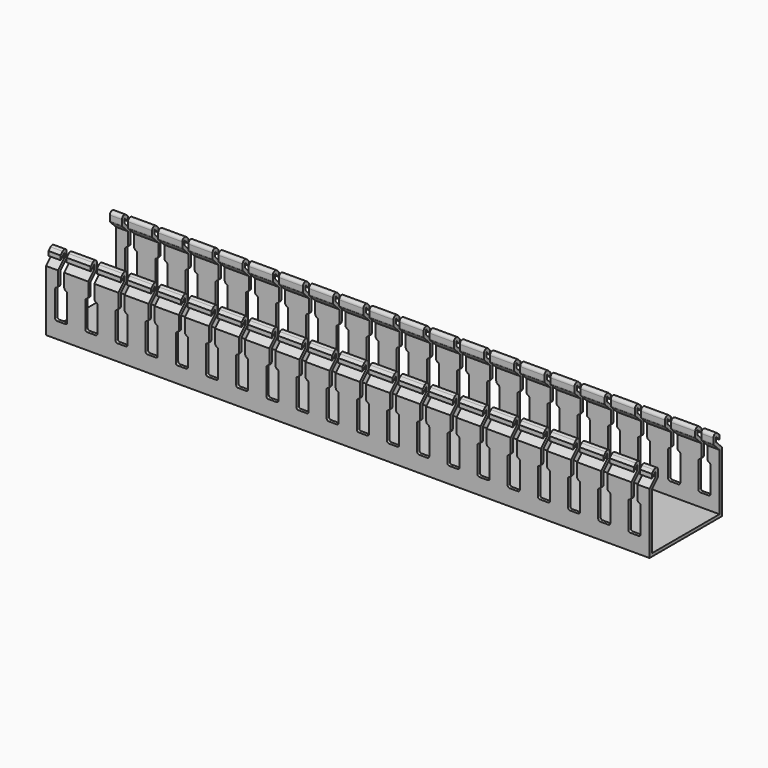
from build123d import *

# Parameters (mm, degrees)
PAD003_DEPTH           = 5
POCKET006_DEPTH        = 15.001
LINEARPATTERN001_COUNT = 20
LINEARPATTERN001_PITCH = 10


with BuildPart() as part:
    # Sketch027 → Pad003 (new body)
    with BuildSketch(Plane.YZ):
        with BuildLine():
            Line((-14, 22.737258), (-14, 24.151472))
            Line((-14, 24.151472), (-13.151472, 25))
            ThreePointArc((-11.444365, 24.292893), (-12.061682, 25.216773), (-13.151472, 25))
            Line((-11.444365, 24.292893), (-11.444365, 22.538346))
            ThreePointArc((-11.596606, 22.170804), (-11.483931, 22.339434), (-11.444365, 22.538346))
            Line((-11.596606, 22.170804), (-14, 19.76741))
            Line((-14, 19.76741), (-14, 1))
            Line((-14, 1), (0, 1))
            Line((0, 0), (0, 1))
            Line((-15, 0), (0, 0))
            Line((-15, 20.181623), (-15, 0))
            Line((-12.444365, 22.737258), (-15, 20.181623))
            Line((-12.444365, 24.292893), (-12.444365, 22.737258))
            Line((-14, 22.737258), (-12.444365, 24.292893))
        make_face()
    extrude(amount=PAD003_DEPTH)

    # Sketch028 (on Face11 of Pad003) → Pocket006 (cut, through all)
    with BuildSketch(Plane(origin=(0, -15, 0), x_dir=(0, 0, -1), z_dir=(0, -1, 0))):
        with BuildLine():
            Line((-25.292893, 0), (-25.292893, 1))
            Line((-25.292893, 1), (-15.864076, 1))
            ThreePointArc((-15.864076, 1), (-15.300861, 1.18134), (-14.949256, 1.657228))
            ThreePointArc((-14.472139, 2), (-14.765879, 1.905424), (-14.949256, 1.657228))
            Line((-14.472139, 2), (-5.938488, 2))
            ThreePointArc((-5.292893, 1.354406), (-5.481983, 1.81091), (-5.938488, 2))
            Line((-5.292893, 1.354406), (-5.292893, 0))
            Line((-5.292893, 0), (-25.292893, 0))
        make_face()
    extrude(amount=-POCKET006_DEPTH, mode=Mode.SUBTRACT)

    # Mirrored: part across YZ


with BuildPart() as part_1:
    add(part.part)
    add(part.part.mirror(Plane.YZ))

    # Mirrored001: part across XZ


with BuildPart() as part_2:
    add(part_1.part)
    add(part_1.part.mirror(Plane.XZ))

    # LinearPattern001: part ×20


with BuildPart() as part_3:
    add(part_2.part)
    with Locations(*[(i * LINEARPATTERN001_PITCH, 0, 0) for i in range(1, LINEARPATTERN001_COUNT)]):
        add(part_2.part)


with BuildPart() as part_4:
    # Body003 placement: moved
    add(part_3.part.moved(Location((-153, -87, -7))))


solid = part_4.part
